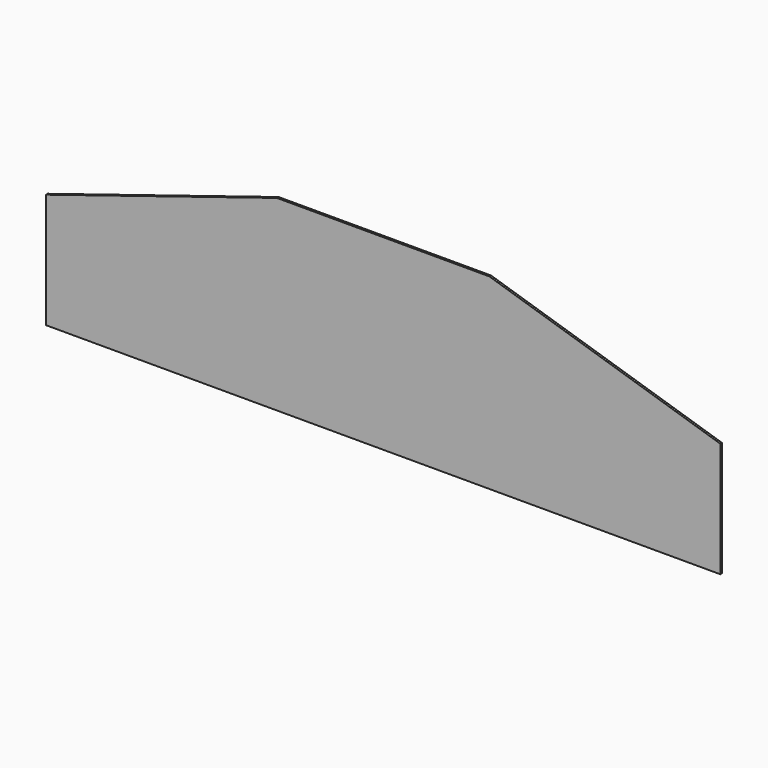
from build123d import *

# Parameters (mm, degrees)
F0_W     = 22.7
F0_H     = 6.3
F1_DEPTH = 0.07
F3_DEPTH = 25


with BuildPart() as f1:
    # F0 (on Front) → F1 (new body)
    with BuildSketch(Plane.XZ):
        with Locations((6.764986, -0.59659)):
            Rectangle(F0_W, F0_H)
    extrude(amount=F1_DEPTH)

    # F2 (on face) → F3 (cut)
    with BuildSketch(Plane.XZ.offset(0.07)):
        Polygon((-4.585014, 2.55341), (-4.585014, 0.12241), (3.187986, 2.55341), align=None)
        Polygon((18.114986, 2.55341), (10.341986, 2.55341), (18.114986, 0.12241), align=None)
    extrude(amount=-F3_DEPTH, mode=Mode.SUBTRACT)


solid = f1.part
